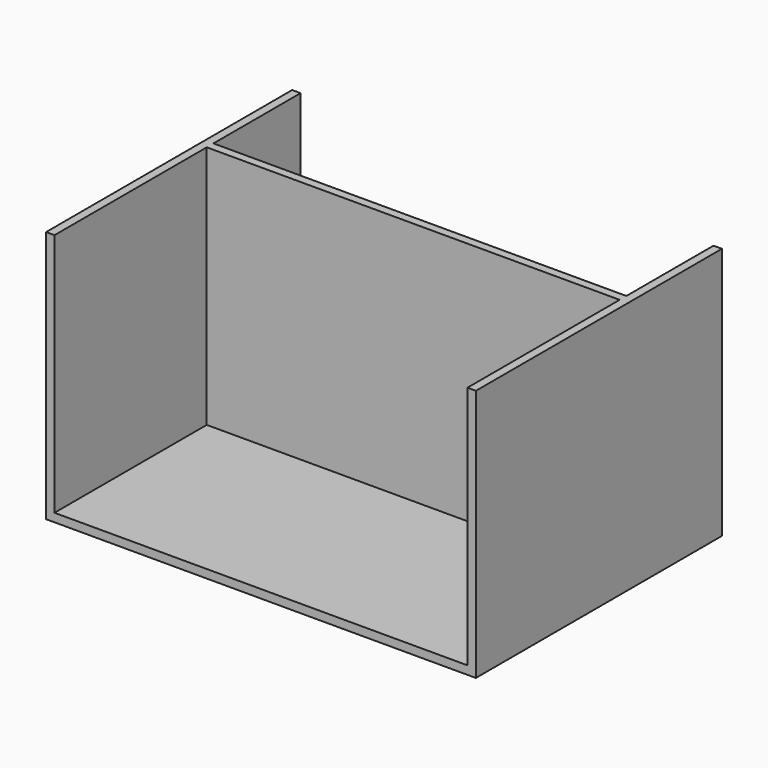
from build123d import *

# Parameters (mm, degrees)
F0_W      = 1020
F0_H      = 730
F1_DEPTH  = 20
F2_W      = 20
F2_H      = 730
F3_DEPTH  = 580
F4_W      = 20
F4_H      = 730
F5_DEPTH  = 580
F6_W      = 980
F6_H      = 20
F7_DEPTH  = 580
F8_W      = 980
F8_H      = 20
F9_DEPTH  = 255
F10_W     = 100
F10_H     = 150
F11_DEPTH = 25


with BuildPart() as f1:
    # F0 (on Top) → F1 (new body)
    with BuildSketch(Plane.XY):
        with Locations((-510, 365)):
            Rectangle(F0_W, F0_H)
    extrude(amount=F1_DEPTH)

    # F2 (on face) → F3 (join)
    with BuildSketch(Plane.XY.offset(20)):
        with Locations((-10, 365)):
            Rectangle(F2_W, F2_H)
    extrude(amount=F3_DEPTH)

    # F4 (on face) → F5 (join)
    with BuildSketch(Plane.XY.offset(20)):
        with Locations((-1010, 365)):
            Rectangle(F4_W, F4_H)
    extrude(amount=F5_DEPTH)

    # F6 (on face) → F7 (join)
    with BuildSketch(Plane.XY.offset(20)):
        with Locations((-510, 461.57975)):
            Rectangle(F6_W, F6_H)
    extrude(amount=F7_DEPTH)

    # F8 (on face) → F9 (join)
    with BuildSketch(Plane(origin=(0, 471.57975, 0), x_dir=(-1, 0, 0), z_dir=(0, 1, 0))):
        with Locations((510, 361.820499)):
            Rectangle(F8_W, F8_H)
    extrude(amount=F9_DEPTH)

    # F10 (on face) → F11 (join)
    with BuildSketch(Plane(origin=(-20, 0, 0), x_dir=(0, -1, 0), z_dir=(-1, 0, 0))):
        with Locations((-521.57975, 95)):
            Rectangle(F10_W, F10_H)
    extrude(amount=F11_DEPTH)


solid = f1.part
